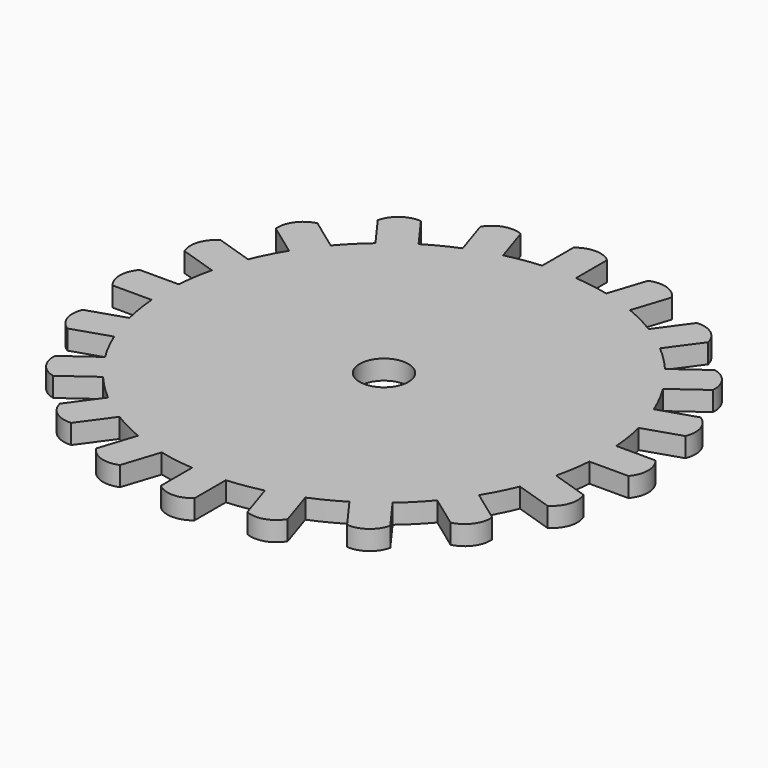
from build123d import *

# Parameters (mm, degrees)
F0_R     = 6.35
F1_DEPTH = 5.08


with BuildPart() as f1:
    # F0 (on Top) → F1 (new body)
    with BuildSketch(Plane.XY):
        with BuildLine():
            Line((-4.392071, 67.140981), (-4.392071, 56.980981))
            ThreePointArc((-4.392071, 56.980981), (-8.94023, 56.446389), (-13.430984, 55.549358))
            Line((-13.430984, 55.549358), (-16.570597, 65.212092))
            ThreePointArc((-16.570597, 65.212092), (-21.253073, 65.410232), (-24.924812, 62.497643))
            Line((-24.924812, 62.497643), (-21.785199, 52.834909))
            ThreePointArc((-21.785199, 52.834909), (-25.945557, 50.921023), (-29.939321, 48.680176))
            Line((-29.939321, 48.680176), (-35.911219, 56.899789))
            ThreePointArc((-35.911219, 56.899789), (-40.425746, 55.641266), (-43.017738, 51.7366))
            Line((-43.017738, 51.7366), (-37.04584, 43.516988))
            ThreePointArc((-37.04584, 43.516988), (-40.411153, 40.411153), (-43.516988, 37.04584))
            Line((-43.516988, 37.04584), (-51.7366, 43.017738))
            ThreePointArc((-51.7366, 43.017738), (-55.641266, 40.425746), (-56.899789, 35.911219))
            Line((-56.899789, 35.911219), (-48.680176, 29.939321))
            ThreePointArc((-48.680176, 29.939321), (-50.921023, 25.945557), (-52.834909, 21.785199))
            Line((-52.834909, 21.785199), (-62.497643, 24.924812))
            ThreePointArc((-62.497643, 24.924812), (-65.410232, 21.253073), (-65.212092, 16.570597))
            Line((-65.212092, 16.570597), (-55.549358, 13.430984))
            ThreePointArc((-55.549358, 13.430984), (-56.446389, 8.94023), (-56.980981, 4.392071))
            Line((-56.980981, 4.392071), (-67.140981, 4.392071))
            ThreePointArc((-67.140981, 4.392071), (-68.776388, 0), (-67.140981, -4.392071))
            Line((-67.140981, -4.392071), (-56.980981, -4.392071))
            ThreePointArc((-56.980981, -4.392071), (-56.446389, -8.94023), (-55.549358, -13.430984))
            Line((-55.549358, -13.430984), (-65.212092, -16.570597))
            ThreePointArc((-65.212092, -16.570597), (-65.410232, -21.253073), (-62.497643, -24.924812))
            Line((-62.497643, -24.924812), (-52.834909, -21.785199))
            ThreePointArc((-52.834909, -21.785199), (-50.921023, -25.945557), (-48.680176, -29.939321))
            Line((-48.680176, -29.939321), (-56.899789, -35.911219))
            ThreePointArc((-56.899789, -35.911219), (-55.641266, -40.425746), (-51.7366, -43.017738))
            Line((-51.7366, -43.017738), (-43.516988, -37.04584))
            ThreePointArc((-43.516988, -37.04584), (-40.411153, -40.411153), (-37.04584, -43.516988))
            Line((-37.04584, -43.516988), (-43.017738, -51.7366))
            ThreePointArc((-43.017738, -51.7366), (-40.425746, -55.641266), (-35.911219, -56.899789))
            Line((-35.911219, -56.899789), (-29.939321, -48.680176))
            ThreePointArc((-29.939321, -48.680176), (-25.945557, -50.921023), (-21.785199, -52.834909))
            Line((-21.785199, -52.834909), (-24.924812, -62.497643))
            ThreePointArc((-24.924812, -62.497643), (-21.253073, -65.410232), (-16.570597, -65.212092))
            Line((-16.570597, -65.212092), (-13.430984, -55.549358))
            ThreePointArc((-13.430984, -55.549358), (-8.94023, -56.446389), (-4.392071, -56.980981))
            Line((-4.392071, -56.980981), (-4.392071, -67.140981))
            ThreePointArc((-4.392071, -67.140981), (0, -68.776388), (4.392071, -67.140981))
            Line((4.392071, -67.140981), (4.392071, -56.980981))
            ThreePointArc((4.392071, -56.980981), (8.94023, -56.446389), (13.430984, -55.549358))
            Line((13.430984, -55.549358), (16.570597, -65.212092))
            ThreePointArc((16.570597, -65.212092), (21.253073, -65.410232), (24.924812, -62.497643))
            Line((24.924812, -62.497643), (21.785199, -52.834909))
            ThreePointArc((21.785199, -52.834909), (25.945557, -50.921023), (29.939321, -48.680176))
            Line((29.939321, -48.680176), (35.911219, -56.899789))
            ThreePointArc((35.911219, -56.899789), (40.425746, -55.641266), (43.017738, -51.7366))
            Line((43.017738, -51.7366), (37.04584, -43.516988))
            ThreePointArc((37.04584, -43.516988), (40.411153, -40.411153), (43.516988, -37.04584))
            Line((43.516988, -37.04584), (51.7366, -43.017738))
            ThreePointArc((51.7366, -43.017738), (55.641266, -40.425746), (56.899789, -35.911219))
            Line((56.899789, -35.911219), (48.680176, -29.939321))
            ThreePointArc((48.680176, -29.939321), (50.921023, -25.945557), (52.834909, -21.785199))
            Line((52.834909, -21.785199), (62.497643, -24.924812))
            ThreePointArc((62.497643, -24.924812), (65.410232, -21.253073), (65.212092, -16.570597))
            Line((65.212092, -16.570597), (55.549358, -13.430984))
            ThreePointArc((55.549358, -13.430984), (56.446389, -8.94023), (56.980981, -4.392071))
            Line((56.980981, -4.392071), (67.140981, -4.392071))
            ThreePointArc((67.140981, -4.392071), (68.776388, 0), (67.140981, 4.392071))
            Line((67.140981, 4.392071), (56.980981, 4.392071))
            ThreePointArc((56.980981, 4.392071), (56.446389, 8.94023), (55.549358, 13.430984))
            Line((55.549358, 13.430984), (65.212092, 16.570597))
            ThreePointArc((65.212092, 16.570597), (65.410232, 21.253073), (62.497643, 24.924812))
            Line((62.497643, 24.924812), (52.834909, 21.785199))
            ThreePointArc((52.834909, 21.785199), (50.921023, 25.945557), (48.680176, 29.939321))
            Line((48.680176, 29.939321), (56.899789, 35.911219))
            ThreePointArc((56.899789, 35.911219), (55.641266, 40.425746), (51.7366, 43.017738))
            Line((51.7366, 43.017738), (43.516988, 37.04584))
            ThreePointArc((43.516988, 37.04584), (40.411153, 40.411153), (37.04584, 43.516988))
            Line((37.04584, 43.516988), (43.017738, 51.7366))
            ThreePointArc((43.017738, 51.7366), (40.425746, 55.641266), (35.911219, 56.899789))
            Line((35.911219, 56.899789), (29.939321, 48.680176))
            ThreePointArc((29.939321, 48.680176), (25.945557, 50.921023), (21.785199, 52.834909))
            Line((21.785199, 52.834909), (24.924812, 62.497643))
            ThreePointArc((24.924812, 62.497643), (21.253073, 65.410232), (16.570597, 65.212092))
            Line((16.570597, 65.212092), (13.430984, 55.549358))
            ThreePointArc((13.430984, 55.549358), (8.94023, 56.446389), (4.392071, 56.980981))
            Line((4.392071, 56.980981), (4.392071, 67.140981))
            ThreePointArc((4.392071, 67.140981), (0, 68.776388), (-4.392071, 67.140981))
        make_face()
        Circle(F0_R, mode=Mode.SUBTRACT)
    extrude(amount=F1_DEPTH)


solid = f1.part
